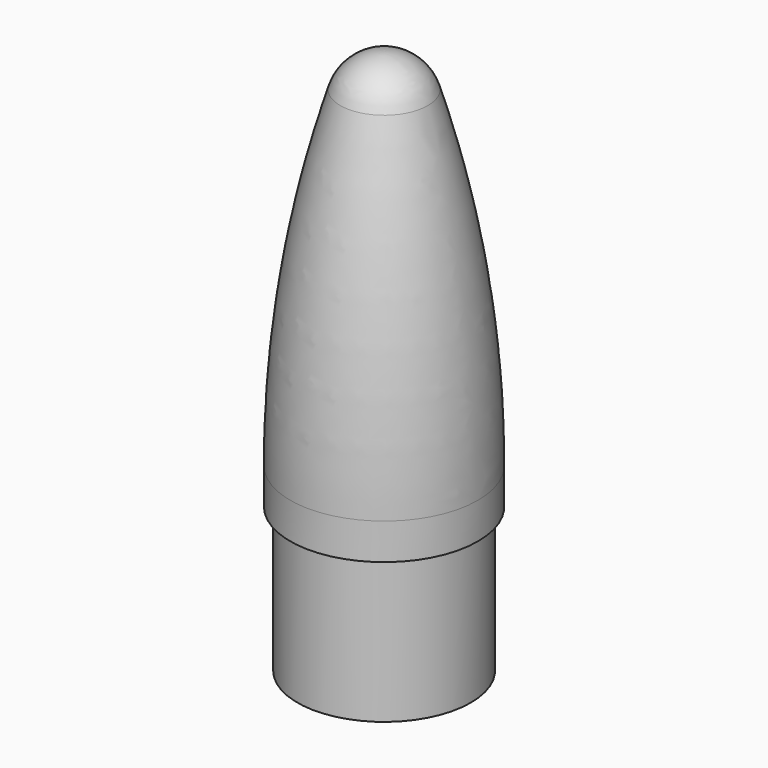
from build123d import *


with BuildPart() as f1:
    # F0 (on Front) → F1 (revolve)
    with BuildSketch(Plane.XZ):
        with BuildLine():
            Line((0, 55), (0, 0))
            Line((0, 0), (12, 0))
            Line((12, 0), (12, 20))
            Line((12, 20), (13, 20))
            Line((13, 20), (13, 25))
            Line((13, 25), (12, 25))
            ThreePointArc((12, 25), (10.360414, 38.701005), (5.53425, 51.62826))
            ThreePointArc((5.53425, 51.62826), (3.240238, 54.090679), (0, 55))
        make_face()
    revolve(axis=Axis((0, 0, 27.5), (0, 0, 1)))


with BuildPart() as f3:
    # F2 (on Front) → F3 (revolve)
    with BuildSketch(Plane.XZ):
        with BuildLine():
            ThreePointArc((5.53425, 51.62826), (10.360414, 38.701005), (12, 25))
            Line((12, 25), (13, 25))
            ThreePointArc((13, 25), (11.257535, 48.194207), (6.069254, 70.867742))
            ThreePointArc((6.069254, 70.867742), (3.770582, 74.103624), (0, 75.343599))
            Line((0, 75.343599), (0, 55))
            ThreePointArc((0, 55), (3.240238, 54.090679), (5.53425, 51.62826))
        make_face()
    revolve(axis=Axis((0, 0, 65.1718), (0, 0, 1)))


solid = Compound([f1.part, f3.part])
